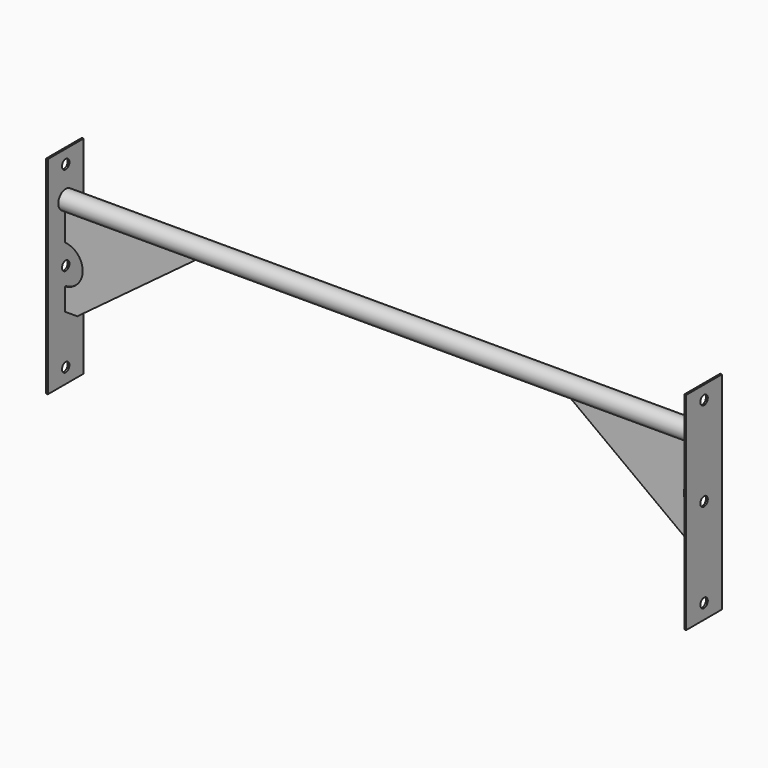
from build123d import *

# Parameters (mm, degrees)
F0_R     = 15.875
F1_DEPTH = 1092.2
F0_W     = 76.2
F0_H     = 353.215248
F0_R_2   = 7.9375
F4_DEPTH = 3.048
F5_DEPTH = 1.524
F6_DEPTH = 1.524


with BuildPart() as f1:
    # F0 (on Right) → F1 (new body)
    with BuildSketch(Plane.YZ):
        Circle(F0_R)
    extrude(amount=F1_DEPTH)

    # F0 (on Right) → F4 (join)
    with BuildSketch(Plane.YZ):
        with Locations((0, -100.805804)):
            Rectangle(F0_W, F0_H)
        with Locations((0, -252.013428)):
            Circle(F0_R_2, mode=Mode.SUBTRACT)
        with Locations((0, -99.613428)):
            Circle(F0_R_2, mode=Mode.SUBTRACT)
        Circle(F0_R, mode=Mode.SUBTRACT)
        with Locations((0, 52.786572)):
            Circle(F0_R_2, mode=Mode.SUBTRACT)
    extrude(amount=F4_DEPTH)

    # F2 (on Front) → F5 (join)
    with BuildSketch(Plane.XZ):
        with BuildLine():
            Line((228.6, 0), (0, 0))
            Line((0, 0), (0, -63.962556))
            ThreePointArc((0, -63.962556), (33.206645, -97.169202), (0, -130.375847))
            Line((0, -130.375847), (0, -168.275))
            Line((0, -168.275), (23.993986, -168.275))
            Line((23.993986, -168.275), (228.6, -16.082697))
            Line((228.6, -16.082697), (228.6, 0))
        make_face()
    extrude(amount=F5_DEPTH)

    # F2 (on Front) → F6 (join)
    with BuildSketch(Plane.XZ):
        with BuildLine():
            Line((228.6, 0), (0, 0))
            Line((0, 0), (0, -63.962556))
            ThreePointArc((0, -63.962556), (33.206645, -97.169202), (0, -130.375847))
            Line((0, -130.375847), (0, -168.275))
            Line((0, -168.275), (23.993986, -168.275))
            Line((23.993986, -168.275), (228.6, -16.082697))
            Line((228.6, -16.082697), (228.6, 0))
        make_face()
    extrude(amount=F6_DEPTH)

    # F7: F1 across plane


with BuildPart() as f1_1:
    add(f1.part)
    add(f1.part.mirror(Plane.YZ.offset(546.1)))


solid = f1_1.part
